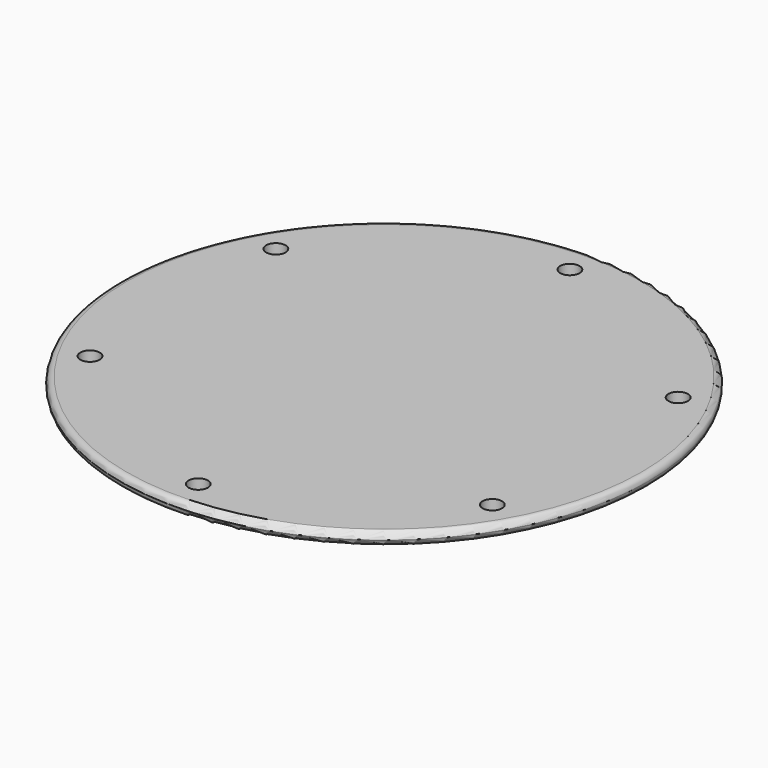
from build123d import *

# Parameters (mm, degrees)
SKETCH_R           = 62.5
PAD_DEPTH          = 3
FILLET_R           = 1.49
SKETCH001_R        = 2.3
POCKET_DEPTH       = 5
POLARPATTERN_COUNT = 6


with BuildPart() as part:
    # Sketch → Pad (new body)
    with BuildSketch(Plane.XY):
        Circle(SKETCH_R)
    extrude(amount=PAD_DEPTH)

    # Fillet
    fillet_edges = [part.edges().sort_by_distance(p)[0] for p in [
        (-62.5, 0, 3),
        (-62.5, 0, 0),
    ]]
    fillet(fillet_edges, radius=FILLET_R)

    # Sketch001 → Pocket (cut)
    with BuildSketch(Plane.XY):
        with Locations((0, 55)):
            Circle(SKETCH001_R)
    pocket = extrude(amount=POCKET_DEPTH, mode=Mode.SUBTRACT)

    # PolarPattern: Pocket ×6 about axis
    polarpattern_axis = Axis((0, 0, 0), (0, 0, 1))
    for i in range(1, POLARPATTERN_COUNT):
        add(pocket.rotate(polarpattern_axis, i * 360 / POLARPATTERN_COUNT), mode=Mode.SUBTRACT)


solid = part.part
